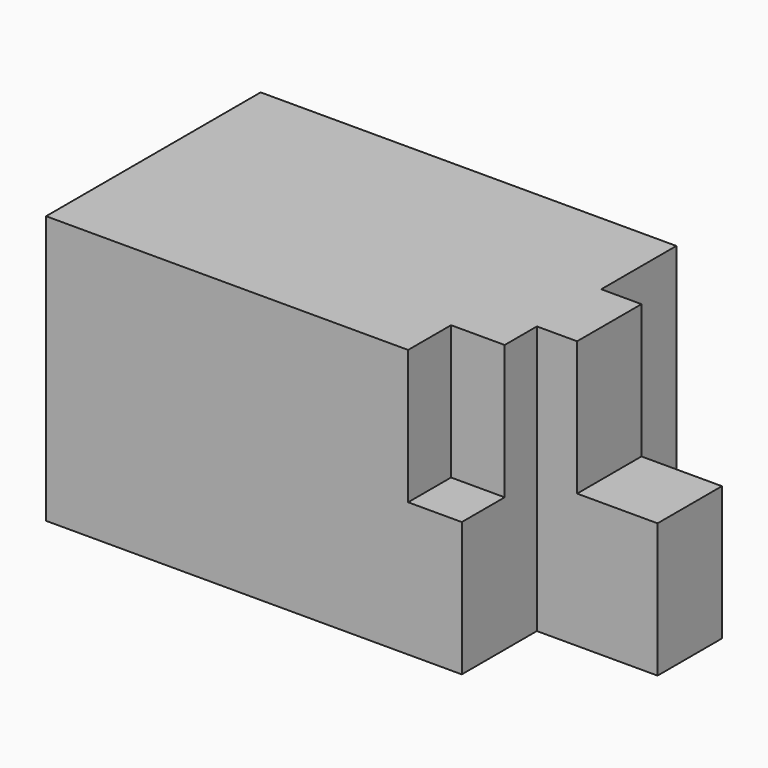
from build123d import *

# Parameters (mm, degrees)
F1_DEPTH = 25
F2_W     = 22.5
F2_H     = 17.5
F3_DEPTH = 50
F4_W     = 10
F4_H     = 10
F5_DEPTH = 25


with BuildPart() as f1:
    # F0 (on Front) → F1 (new body, symmetric)
    with BuildSketch(Plane.XZ):
        Polygon((35, 50), (-50, 50), (-50, 0), (50, 0), (50, 25), (35, 25), align=None)
    extrude(amount=F1_DEPTH, both=True)

    # F2 (on face) → F3 (cut, through all)
    with BuildSketch(Plane.XY.offset(50)):
        with Locations((38.75, 16.25)):
            Rectangle(F2_W, F2_H)
        with Locations((38.75, -16.25)):
            Rectangle(F2_W, F2_H)
    extrude(amount=-F3_DEPTH, mode=Mode.SUBTRACT)

    # F4 (on face) → F5 (cut)
    with BuildSketch(Plane.XY.offset(50)):
        with Locations((22.5, -20)):
            Rectangle(F4_W, F4_H)
    extrude(amount=-F5_DEPTH, mode=Mode.SUBTRACT)


solid = f1.part
